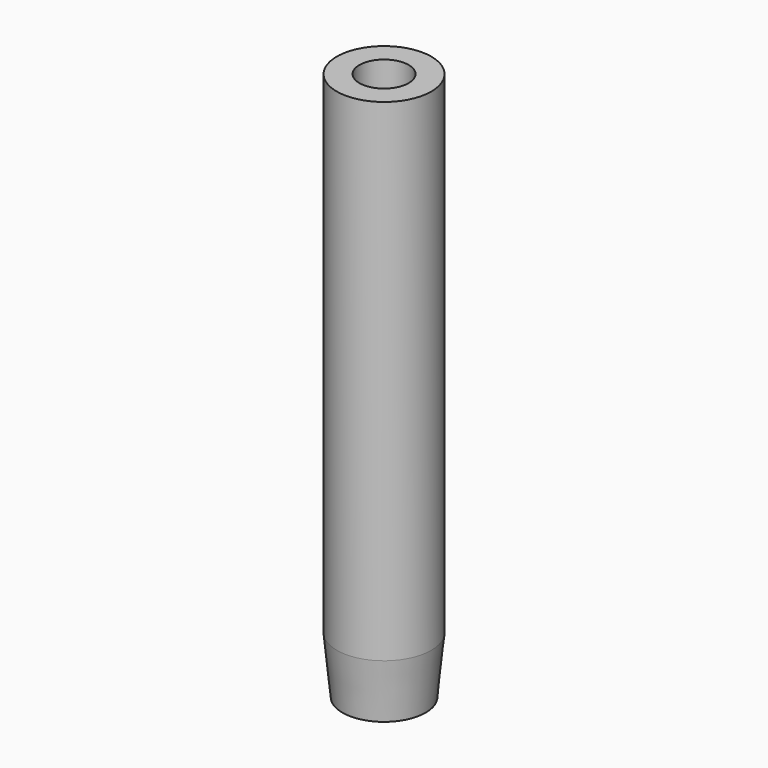
from build123d import *

# Parameters (mm, degrees)
F0_R     = 6.25
F3_R     = 5.5
F5_DEPTH = 65
F1_R     = 3.25
F6_DEPTH = 65


with BuildPart() as f4:
    # F0 (on Top) → F4 section 0
    with BuildSketch(Plane.XY):
        Circle(F0_R)
    # F3 (on offset) → F4 section 1
    with BuildSketch(Plane.XY.offset(-7.5)):
        Circle(F3_R)
    loft()

    # F0 (on Top) → F5 (join)
    with BuildSketch(Plane.XY):
        Circle(F0_R)
    extrude(amount=F5_DEPTH)

    # F1 (on Top) → F6 (cut)
    with BuildSketch(Plane.XY):
        Circle(F1_R)
    extrude(amount=F6_DEPTH, mode=Mode.SUBTRACT)


solid = f4.part
